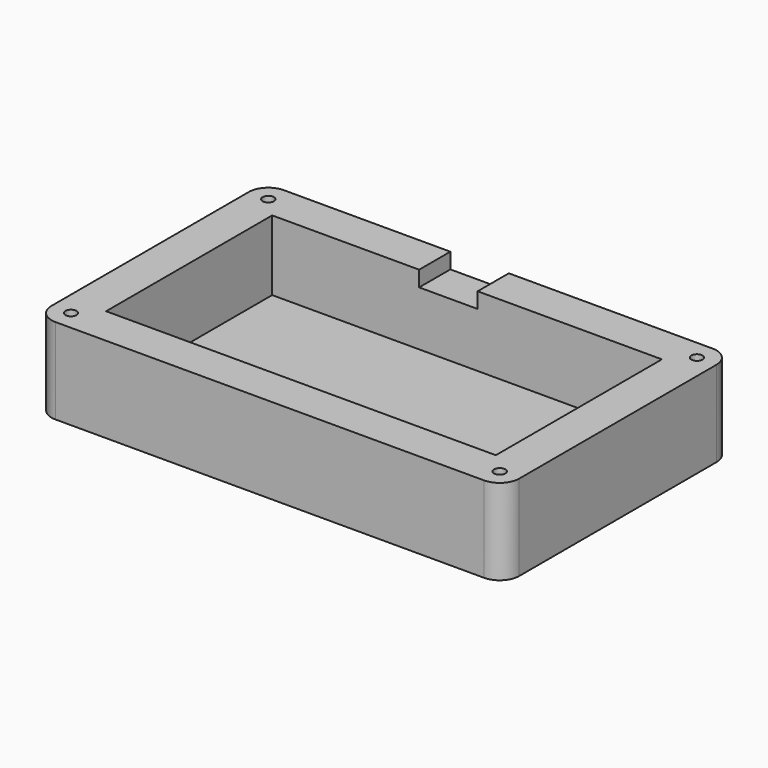
from build123d import *

# Parameters (mm, degrees)
SKETCH004_W      = 15
SKETCH004_H      = 4
EXTRUDE004_DEPTH = 10
SKETCH001_W      = 119.97
SKETCH001_H      = 73.25
SKETCH001_R      = 1.45
SKETCH001_W_2    = 99.97
SKETCH001_H_2    = 53.25
EXTRUDE001_DEPTH = 22
SKETCH_W         = 99.97
SKETCH_H         = 53.25
EXTRUDE_DEPTH    = 4
FILLET_R         = 5


with BuildPart() as extrude004:
    # Sketch004 (on Face4 of Fusion) → Extrude004 (new body)
    with BuildSketch(Plane(origin=(0, 63.25, 0), x_dir=(-1, 0, 0), z_dir=(0, 1, 0))):
        with Locations((-45.204, 20)):
            Rectangle(SKETCH004_W, SKETCH004_H)
    extrude(amount=-EXTRUDE004_DEPTH)


with BuildPart() as extrude001:
    # Sketch001 (on Sketch) → Extrude001 (new body)
    with BuildSketch(Plane.XY):
        with Locations((49.985, 26.625)):
            Rectangle(SKETCH001_W, SKETCH001_H)
        with Locations((104.97, 58.25)):
            Circle(SKETCH001_R, mode=Mode.SUBTRACT)
        with Locations((104.97, -5)):
            Circle(SKETCH001_R, mode=Mode.SUBTRACT)
        with Locations((-5, -5)):
            Circle(SKETCH001_R, mode=Mode.SUBTRACT)
        with Locations((-5, 58.25)):
            Circle(SKETCH001_R, mode=Mode.SUBTRACT)
        with Locations((49.985, 26.625)):
            Rectangle(SKETCH001_W_2, SKETCH001_H_2, mode=Mode.SUBTRACT)
    extrude(amount=EXTRUDE001_DEPTH)


with BuildPart() as fillet_body:
    # Sketch → Extrude (new body)
    with BuildSketch(Plane.XY):
        with Locations((49.985, 26.625)):
            Rectangle(SKETCH_W, SKETCH_H)
    extrude(amount=EXTRUDE_DEPTH)

    # Fusion: union Extrude001
    add(extrude001.part)

    # Cut001: cut Extrude004
    add(extrude004.part, mode=Mode.SUBTRACT)

    # Fillet
    fillet_edges = [fillet_body.edges().sort_by_distance(p)[0] for p in [
        (-10, 63.25, 11),
        (-10, -10, 11),
        (109.97, 63.25, 11),
        (109.97, -10, 11),
    ]]
    fillet(fillet_edges, radius=FILLET_R)


solid = fillet_body.part
